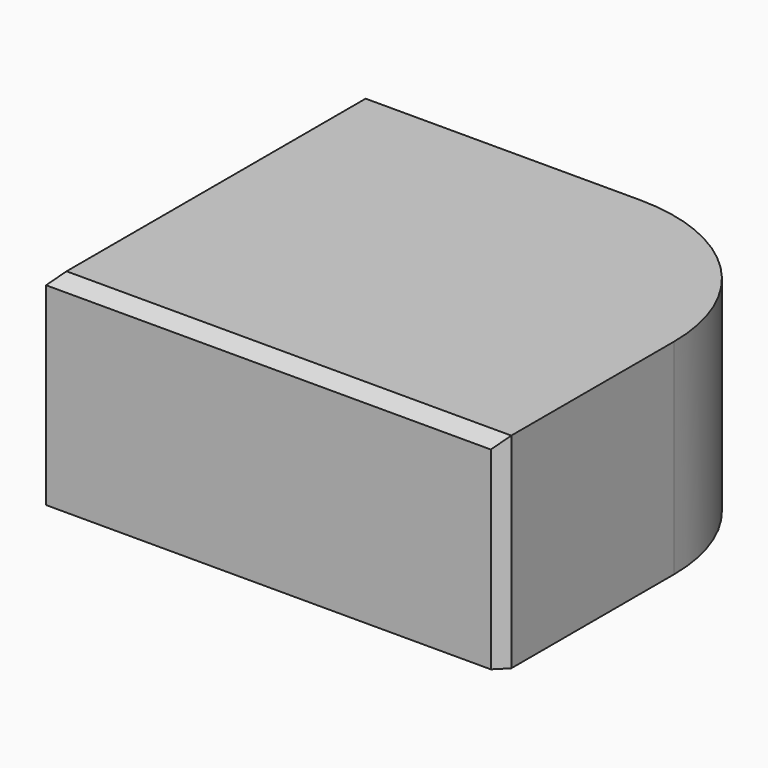
from build123d import *

# Parameters (mm, degrees)
F0_W     = 204.106725
F0_H     = 172.404602
F1_DEPTH = 91.694
F2_SIZE  = 5.08
F3_R     = 76.2


with BuildPart() as f1:
    # F0 (on Top) → F1 (new body)
    with BuildSketch(Plane.XY):
        with Locations((29.834312, -9.587683)):
            Rectangle(F0_W, F0_H)
    extrude(amount=F1_DEPTH)

    # F2
    f2_edges = [f1.edges().sort_by_distance(p)[0] for p in [
        (29.834311, -95.789984, 91.694),
        (-72.219051, -9.587683, 91.694),
        (131.887674, -95.789984, 45.847),
    ]]
    chamfer(f2_edges, length=F2_SIZE)

    # F3
    f3_edges = [f1.edges().sort_by_distance(p)[0] for p in [
        (131.887674, 76.614618, 45.847),
    ]]
    fillet(f3_edges, radius=F3_R)


solid = f1.part
